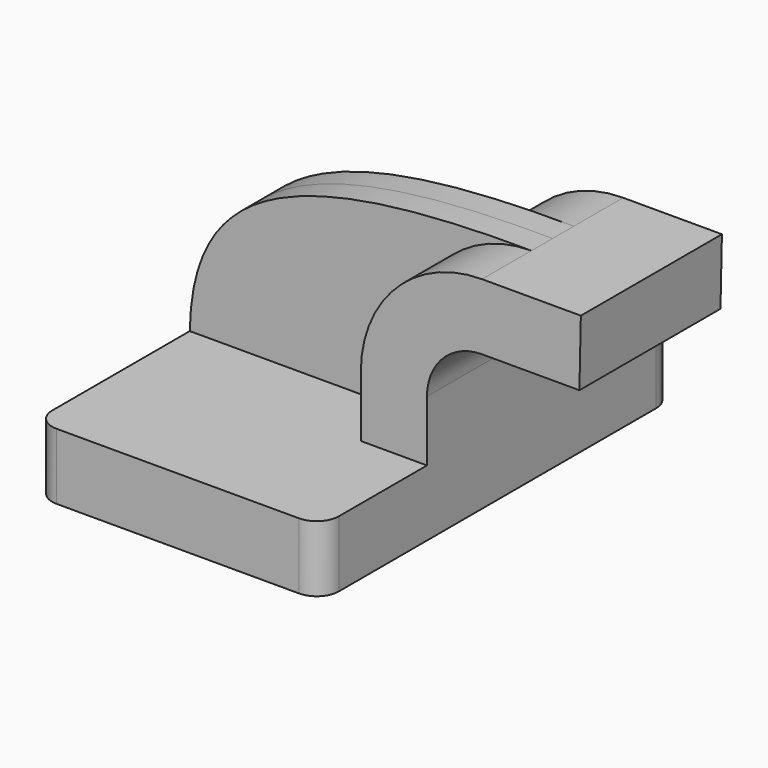
from build123d import *

# Parameters (mm, degrees)
F1_DEPTH = 63.5
F2_DEPTH = 25.4
F3_DEPTH = 7.62
F4_R     = 6.35


with BuildPart() as f1:
    # F0 (on Front) → F1 (new body, symmetric)
    with BuildSketch(Plane.XZ):
        Polygon((-41.275, -9.525), (41.275, -9.525), (41.275, 9.525), (22.225, 9.525), (-41.275, 9.525), align=None)
    extrude(amount=F1_DEPTH, both=True)

    # F0 (on Front) → F2 (join, symmetric)
    with BuildSketch(Plane.XZ):
        with BuildLine():
            Line((22.225, 9.525), (41.275, 9.525))
            Line((41.275, 9.525), (41.275, 27.0002))
            ThreePointArc((41.275, 27.0002), (45.92468, 38.22552), (57.15, 42.8752))
            Line((57.15, 42.8752), (60.325, 42.8752))
            Line((60.325, 42.8752), (60.325, 61.9252))
            Line((60.325, 61.9252), (57.15, 61.9252))
            ThreePointArc((57.15, 61.9252), (32.454296, 51.695904), (22.225, 27.0002))
            Line((22.225, 27.0002), (22.225, 9.525))
        make_face()
        Polygon((85.611328, 61.9252), (60.325, 61.9252), (60.325, 42.8752), (85.194737, 42.8752), align=None)
    extrude(amount=F2_DEPTH, both=True)

    # F0 (on Front) → F3 (join, symmetric)
    with BuildSketch(Plane.XZ):
        with BuildLine():
            add(Edge.make_bspline(
                [(-41.275, 9.525), (-40.618513, 46.65922), (-15.205906, 62.490027), (57.15, 61.9252)],
                knots=[0, 0, 0, 0, 111.504536, 111.504536, 111.504536, 111.504536], degree=3))
            Line((-41.275, 9.525), (22.225, 9.525))
            Line((22.225, 9.525), (22.225, 27.0002))
            ThreePointArc((22.225, 27.0002), (32.454296, 51.695904), (57.15, 61.9252))
        make_face()
    extrude(amount=F3_DEPTH, both=True)

    # F4
    f4_edges = [f1.edges().sort_by_distance(p)[0] for p in [
        (41.275, -63.5, 0),
        (41.275, 63.5, 0),
        (-41.275, -63.5, 0),
        (-41.275, 63.5, 0),
    ]]
    fillet(f4_edges, radius=F4_R)


solid = f1.part
